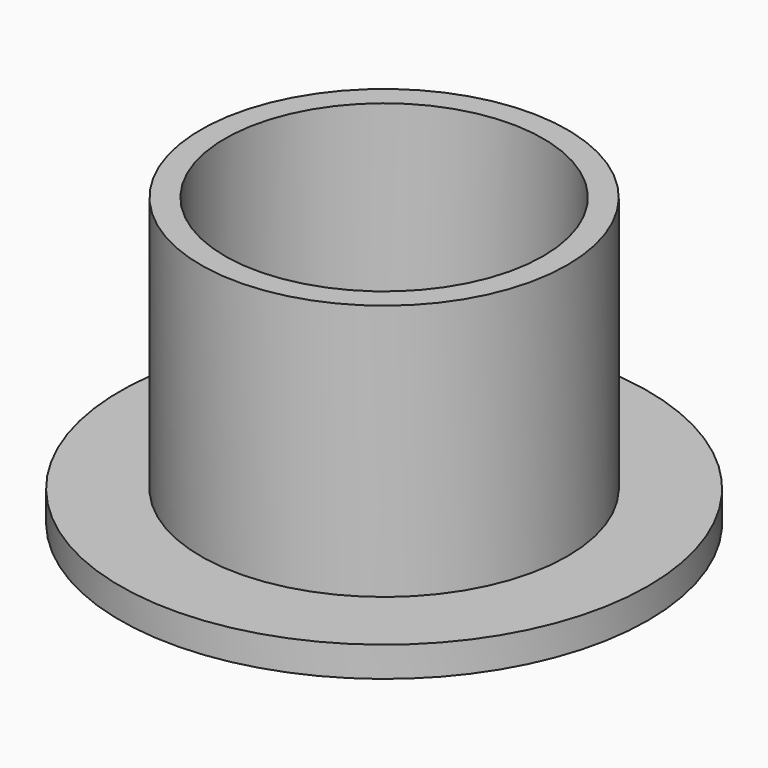
from build123d import *

# Parameters (mm, degrees)
F0_R     = 17.5
F1_DEPTH = 2
F2_R     = 12.15
F3_DEPTH = 17
F4_T     = -1.6


with BuildPart() as f1:
    # F0 (on Top) → F1 (new body)
    with BuildSketch(Plane.XY):
        Circle(F0_R)
    extrude(amount=F1_DEPTH)

    # F2 (on face) → F3 (join)
    with BuildSketch(Plane.XY.offset(2)):
        Circle(F2_R)
    extrude(amount=F3_DEPTH)

    # F4
    f4_openings = [f1.faces().sort_by_distance(p)[0] for p in [
        (0, 0, 19),
    ]]
    offset(amount=F4_T, openings=f4_openings, kind=Kind.INTERSECTION)


solid = f1.part
